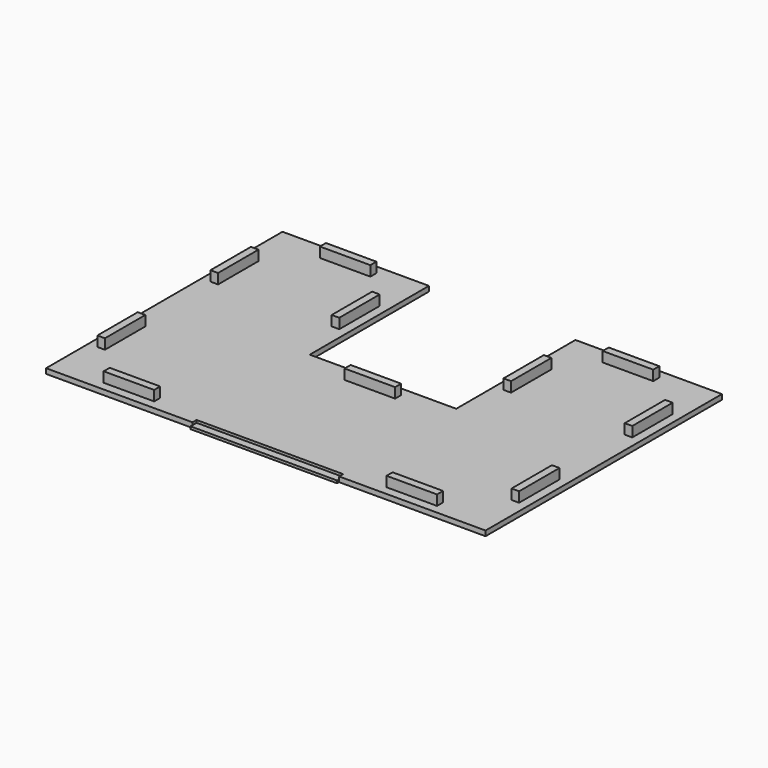
from build123d import *

# Parameters (mm, degrees)
BOX013_W     = 20
BOX013_H     = 3
BOX013_DEPTH = 6
BOX012_W     = 20
BOX012_H     = 3
BOX012_DEPTH = 6
BOX011_W     = 20
BOX011_H     = 3
BOX011_DEPTH = 6
BOX010_W     = 20
BOX010_H     = 3
BOX010_DEPTH = 6
BOX009_W     = 20
BOX009_H     = 3
BOX009_DEPTH = 6
BOX008_W     = 20
BOX008_H     = 3
BOX008_DEPTH = 6
BOX007_W     = 20
BOX007_H     = 3
BOX007_DEPTH = 6
BOX006_W     = 20
BOX006_H     = 3
BOX006_DEPTH = 6
BOX005_W     = 20
BOX005_H     = 3
BOX005_DEPTH = 6
BOX004_W     = 20
BOX004_H     = 3
BOX004_DEPTH = 6
BOX003_W     = 20
BOX003_H     = 3
BOX003_DEPTH = 6
BOX002_W     = 58
BOX002_H     = 117
BOX002_DEPTH = 2
BOX001_W     = 58
BOX001_H     = 117
BOX001_DEPTH = 2
BOX_W        = 58
BOX_H        = 56
BOX_DEPTH    = 2
BOX014_W     = 58
BOX014_H     = 3
BOX014_DEPTH = 1


with BuildPart() as cube013:
    # Box013 → Box013 (new body)
    with BuildSketch(Plane(origin=(77, 51.5, 0), x_dir=(1, 0, 0), z_dir=(0, 0, 1))):
        with Locations((10, 1.5)):
            Rectangle(BOX013_W, BOX013_H)
    extrude(amount=BOX013_DEPTH)


with BuildPart() as cube012:
    # Box012 → Box012 (new body)
    with BuildSketch(Plane(origin=(3.5, 41, 0), x_dir=(0, -1, 0), z_dir=(0, 0, 1))):
        with Locations((10, 1.5)):
            Rectangle(BOX012_W, BOX012_H)
    extrude(amount=BOX012_DEPTH)


with BuildPart() as cube011:
    # Box011 → Box011 (new body)
    with BuildSketch(Plane(origin=(3.5, 97, 0), x_dir=(0, -1, 0), z_dir=(0, 0, 1))):
        with Locations((10, 1.5)):
            Rectangle(BOX011_W, BOX011_H)
    extrude(amount=BOX011_DEPTH)


with BuildPart() as cube010:
    # Box010 → Box010 (new body)
    with BuildSketch(Plane(origin=(51.5, 97, 0), x_dir=(0, -1, 0), z_dir=(0, 0, 1))):
        with Locations((10, 1.5)):
            Rectangle(BOX010_W, BOX010_H)
    extrude(amount=BOX010_DEPTH)


with BuildPart() as cube009:
    # Box009 → Box009 (new body)
    with BuildSketch(Plane(origin=(167.5, 97, 0), x_dir=(0, -1, 0), z_dir=(0, 0, 1))):
        with Locations((10, 1.5)):
            Rectangle(BOX009_W, BOX009_H)
    extrude(amount=BOX009_DEPTH)


with BuildPart() as cube008:
    # Box008 → Box008 (new body)
    with BuildSketch(Plane(origin=(167.5, 41, 0), x_dir=(0, -1, 0), z_dir=(0, 0, 1))):
        with Locations((10, 1.5)):
            Rectangle(BOX008_W, BOX008_H)
    extrude(amount=BOX008_DEPTH)


with BuildPart() as cube007:
    # Box007 → Box007 (new body)
    with BuildSketch(Plane(origin=(119.5, 97, 0), x_dir=(0, -1, 0), z_dir=(0, 0, 1))):
        with Locations((10, 1.5)):
            Rectangle(BOX007_W, BOX007_H)
    extrude(amount=BOX007_DEPTH)


with BuildPart() as cube006:
    # Box006 → Box006 (new body)
    with BuildSketch(Plane(origin=(132, 110.5, 0), x_dir=(1, 0, 0), z_dir=(0, 0, 1))):
        with Locations((10, 1.5)):
            Rectangle(BOX006_W, BOX006_H)
    extrude(amount=BOX006_DEPTH)


with BuildPart() as cube005:
    # Box005 → Box005 (new body)
    with BuildSketch(Plane(origin=(132, 3.5, 0), x_dir=(1, 0, 0), z_dir=(0, 0, 1))):
        with Locations((10, 1.5)):
            Rectangle(BOX005_W, BOX005_H)
    extrude(amount=BOX005_DEPTH)


with BuildPart() as cube004:
    # Box004 → Box004 (new body)
    with BuildSketch(Plane(origin=(20, 3.5, 0), x_dir=(1, 0, 0), z_dir=(0, 0, 1))):
        with Locations((10, 1.5)):
            Rectangle(BOX004_W, BOX004_H)
    extrude(amount=BOX004_DEPTH)


with BuildPart() as cube003:
    # Box003 → Box003 (new body)
    with BuildSketch(Plane(origin=(20, 110.5, 0), x_dir=(1, 0, 0), z_dir=(0, 0, 1))):
        with Locations((10, 1.5)):
            Rectangle(BOX003_W, BOX003_H)
    extrude(amount=BOX003_DEPTH)


with BuildPart() as cube002:
    # Box002 → Box002 (new body)
    with BuildSketch(Plane(origin=(116, 0, 0), x_dir=(1, 0, 0), z_dir=(0, 0, 1))):
        with Locations((29, 58.5)):
            Rectangle(BOX002_W, BOX002_H)
    extrude(amount=BOX002_DEPTH)


with BuildPart() as cube001:
    # Box001 → Box001 (new body)
    with BuildSketch(Plane.XY):
        with Locations((29, 58.5)):
            Rectangle(BOX001_W, BOX001_H)
    extrude(amount=BOX001_DEPTH)


with BuildPart() as cube:
    # Box → Box (new body)
    with BuildSketch(Plane(origin=(58, 2, 0), x_dir=(1, 0, 0), z_dir=(0, 0, 1))):
        with Locations((29, 28)):
            Rectangle(BOX_W, BOX_H)
    extrude(amount=BOX_DEPTH)


with BuildPart() as fusion:
    # Box014 → Box014 (new body)
    with BuildSketch(Plane(origin=(58, -1, 0), x_dir=(1, 0, 0), z_dir=(0, 0, 1))):
        with Locations((29, 1.5)):
            Rectangle(BOX014_W, BOX014_H)
    extrude(amount=BOX014_DEPTH)

    # Fusion: union Cube013, Cube012, Cube011, Cube010, Cube009, Cube008, Cube007, Cube006, Cube005, Cube004, Cube003, Cube002, Cube001, Cube
    add(cube013.part)
    add(cube012.part)
    add(cube011.part)
    add(cube010.part)
    add(cube009.part)
    add(cube008.part)
    add(cube007.part)
    add(cube006.part)
    add(cube005.part)
    add(cube004.part)
    add(cube003.part)
    add(cube002.part)
    add(cube001.part)
    add(cube.part)


solid = fusion.part
